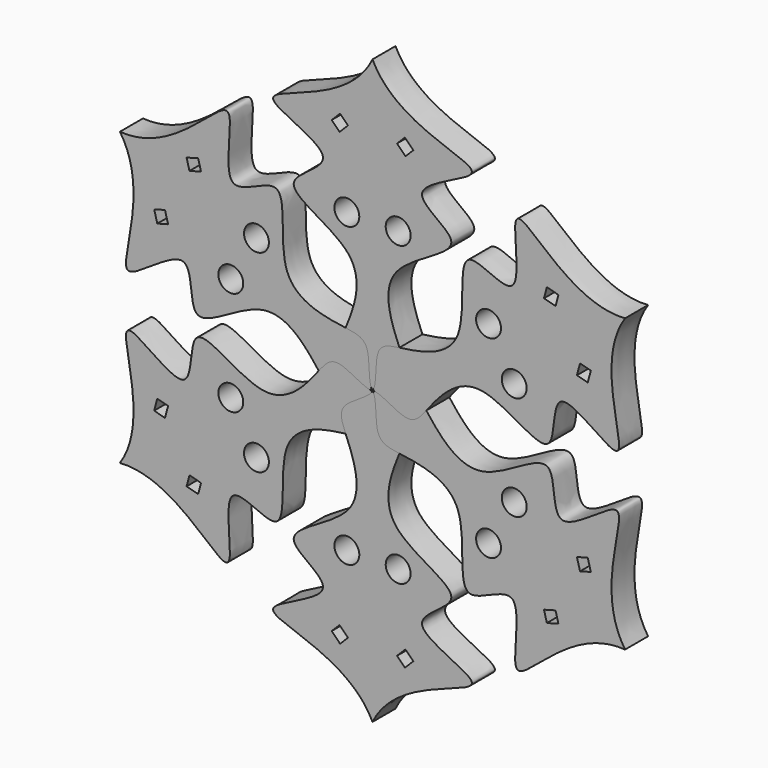
from build123d import *

# Parameters (mm, degrees)
F0_R     = 2.6000406455
F1_DEPTH = 6
F3_COUNT = 6


with BuildPart() as f1:
    # F0 (on Front) → F1 (new body)
    with BuildSketch(Plane.XZ):
        with BuildLine():
            add(Edge.make_bspline(
                [(0, 60.8928613365), (5.1103381182, 50.3026383773), (33.245456133, 48.6861632965), (2.8666255576, 40.083749412), (23.8490868371, 32.058065644), (-0.2484946886, 25.0630605627), (5.1938162357, 10.477135206), (7.952289064, 4.4140092054), (0.4742692667, 1.4527198469), (0, 0)],
                knots=[0, 0, 0, 0, 0.2072114512, 0.3540259432, 0.4789249503, 0.6396868999, 0.7881740702, 0.8857871209, 1, 1, 1, 1], degree=3))
            add(Edge.make_bspline(
                [(0, 60.8928613365), (-5.1103381182, 50.3026383773), (-33.245456133, 48.6861632965), (-2.8666255576, 40.083749412), (-23.8490868371, 32.058065644), (0.2484946886, 25.0630605627), (-5.1938162357, 10.477135206), (-7.952289064, 4.4140092054), (-0.4742692667, 1.4527198469), (0, 0)],
                knots=[0, 0, 0, 0, 0.2072114512, 0.3540259432, 0.4789249503, 0.6396868999, 0.7881740702, 0.8857871209, 1, 1, 1, 1], degree=3))
        make_face()
        with Locations((-5.3571439348, 31.0714300722)):
            Circle(F0_R, mode=Mode.SUBTRACT)
        Polygon((-6.7638459732, 48.7320584361), (-5.1103381182, 47.0785505812), (-6.8781020682, 45.3107866312), (-8.5316099232, 46.9642944861), align=None, mode=Mode.SUBTRACT)
        with Locations((5.3571439348, 31.0714300722)):
            Circle(F0_R, mode=Mode.SUBTRACT)
        Polygon((5.1103381182, 47.0785505812), (6.7638459732, 48.7320584361), (8.5316099232, 46.9642944861), (6.8781020682, 45.3107866312), align=None, mode=Mode.SUBTRACT)
    extrude(amount=F1_DEPTH)


with BuildPart() as f3_1:
    # F3: instance of F1
    add(f1.part.rotate(Axis((0, -31.5178595483, 0), (0, -1, 0)), 1 * 360 / F3_COUNT))


with BuildPart() as f3_2:
    # F3: instance of F1
    add(f1.part.rotate(Axis((0, -31.5178595483, 0), (0, -1, 0)), 2 * 360 / F3_COUNT))


with BuildPart() as f3_3:
    # F3: instance of F1
    add(f1.part.rotate(Axis((0, -31.5178595483, 0), (0, -1, 0)), 3 * 360 / F3_COUNT))


with BuildPart() as f3_4:
    # F3: instance of F1
    add(f1.part.rotate(Axis((0, -31.5178595483, 0), (0, -1, 0)), 4 * 360 / F3_COUNT))


with BuildPart() as f3_5:
    # F3: instance of F1
    add(f1.part.rotate(Axis((0, -31.5178595483, 0), (0, -1, 0)), 5 * 360 / F3_COUNT))


solid = Compound([f1.part, f3_1.part, f3_2.part, f3_3.part, f3_4.part, f3_5.part])
